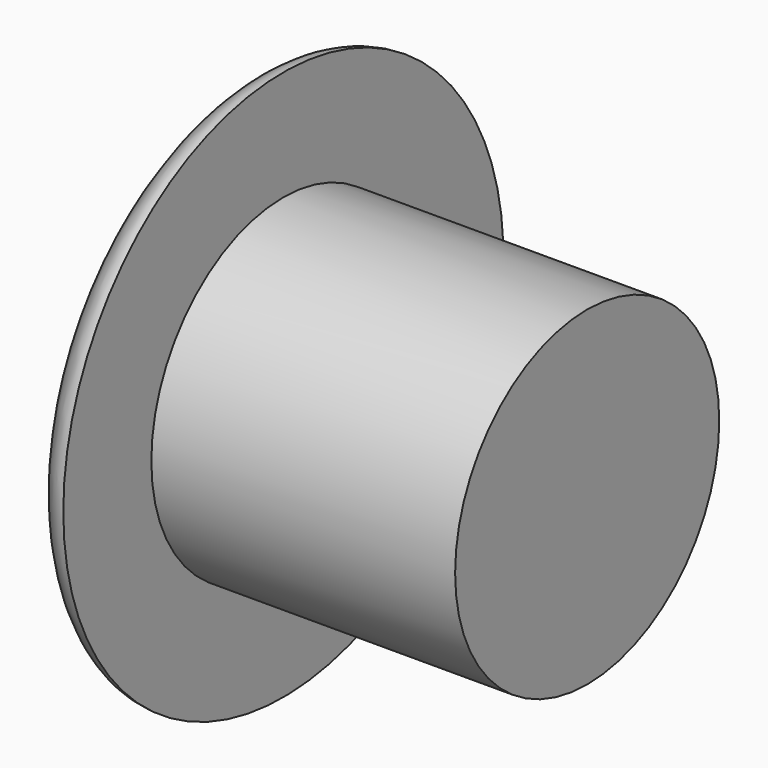
from build123d import *


with BuildPart() as f1:
    # F0 (on Top) → F1 (revolve)
    with BuildSketch(Plane.XY):
        with BuildLine():
            Line((5.5208683647, -3), (5.5208683647, 0))
            Line((5.5208683647, 0), (-1.4791316353, 0))
            add(Edge.make_bspline(
                [(-1.4791316353, 0), (-1.4791316353, -5), (0, -5)],
                knots=[4.7123889804, 4.7123889804, 4.7123889804, 6.2831853072, 6.2831853072, 6.2831853072], degree=2, weights=[1, 0.7071067812, 1]))
            Line((0, -5), (0, -3))
            Line((0, -3), (5.5208683647, -3))
        make_face()
    revolve(axis=Axis((2.0208683647, 0, 0), (-1, 0, 0)))


solid = f1.part
